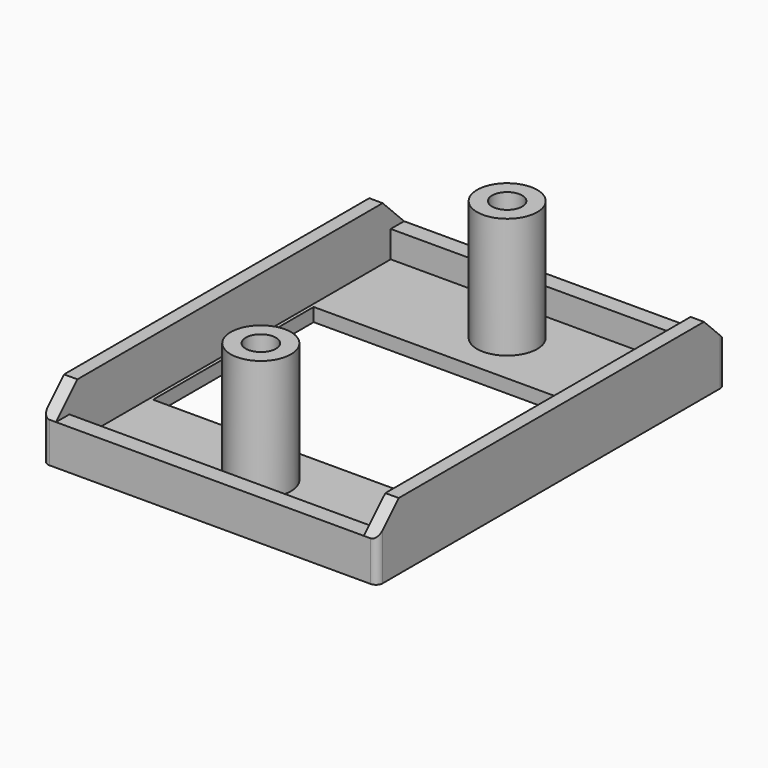
from build123d import *

# Parameters (mm, degrees)
SKETCH025_W       = 50
SKETCH025_H       = 65
PAD015_DEPTH      = 10
SKETCH026_W       = 45
SKETCH026_H       = 30
POCKET008_DEPTH   = 10.001
SKETCH027_W       = 46
SKETCH027_H       = 60
POCKET009_DEPTH   = 8.001
SKETCH028_W       = 46
SKETCH028_H       = 100
POCKET010_DEPTH   = 5
CHAMFER002_SIZE   = 4
FILLET_R          = 1
CYLINDER004_R     = 4.5
CYLINDER004_DEPTH = 20
CYLINDER005_R     = 2.25
CYLINDER005_DEPTH = 20


with BuildPart() as part:
    # Sketch025 → Pad015 (new body)
    with BuildSketch(Plane.XY):
        Rectangle(SKETCH025_W, SKETCH025_H)
    extrude(amount=PAD015_DEPTH)

    # Sketch026 → Pocket008 (cut, through all)
    with BuildSketch(Plane.XY):
        Rectangle(SKETCH026_W, SKETCH026_H)
    extrude(amount=POCKET008_DEPTH, mode=Mode.SUBTRACT)

    # Sketch027 → Pocket009 (cut, through all)
    with BuildSketch(Plane.XY.offset(2)):
        Rectangle(SKETCH027_W, SKETCH027_H)
    extrude(amount=POCKET009_DEPTH, mode=Mode.SUBTRACT)

    # Sketch028 → Pocket010 (cut)
    with BuildSketch(Plane.XY.offset(6)):
        Rectangle(SKETCH028_W, SKETCH028_H)
    extrude(amount=POCKET010_DEPTH, mode=Mode.SUBTRACT)

    # Chamfer002
    chamfer002_edges = [part.edges().sort_by_distance(p)[0] for p in [
        (-24, -32.5, 10),
        (24, -32.5, 10),
        (24, 32.5, 10),
        (-24, 32.5, 10),
    ]]
    chamfer(chamfer002_edges, length=CHAMFER002_SIZE)

    # Fillet
    fillet_edges = [part.edges().sort_by_distance(p)[0] for p in [
        (25, 32.5, 3),
        (25, -32.5, 3),
        (-25, 32.5, 3),
        (-25, -32.5, 3),
    ]]
    fillet(fillet_edges, radius=FILLET_R)

    # Cylinder004 → Cylinder004 (join)
    with BuildSketch(Plane(origin=(0, 23, 0), x_dir=(1, 0, 0), z_dir=(0, 0, 1))):
        Circle(CYLINDER004_R)
    cylinder004 = extrude(amount=CYLINDER004_DEPTH)

    # Cylinder005 → Cylinder005 (cut)
    with BuildSketch(Plane(origin=(0, 23, 4), x_dir=(1, 0, 0), z_dir=(0, 0, 1))):
        Circle(CYLINDER005_R)
    cylinder005 = extrude(amount=CYLINDER005_DEPTH, mode=Mode.SUBTRACT)

    # Mirrored012: Cylinder004, Cylinder005 across XZ
    add(cylinder004.mirror(Plane.XZ))
    add(cylinder005.mirror(Plane.XZ), mode=Mode.SUBTRACT)


solid = part.part
